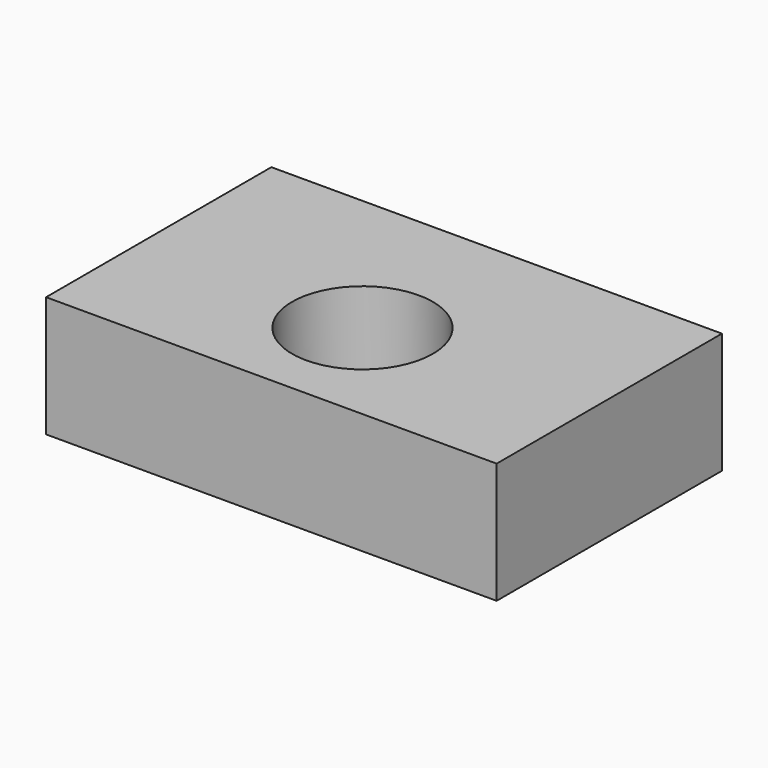
from build123d import *

# Parameters (mm, degrees)
F0_W     = 80
F0_H     = 21.4485707776
F1_DEPTH = 25
F2_R     = 12.5
F3_DEPTH = 21.4485707776


with BuildPart() as f1:
    # F0 (on Front) → F1 (new body, symmetric)
    with BuildSketch(Plane.XZ):
        with Locations((22.2386517376, 19.2757146112)):
            Rectangle(F0_W, F0_H)
    extrude(amount=F1_DEPTH, both=True)

    # F2 (on face) → F3 (cut, through all)
    with BuildSketch(Plane(origin=(0, 0, 8.5514292224), x_dir=(1, 0, 0), z_dir=(0, 0, -1))):
        with Locations((22.2386517376, 4.778329283)):
            Circle(F2_R)
    extrude(amount=-F3_DEPTH, mode=Mode.SUBTRACT)


solid = f1.part
